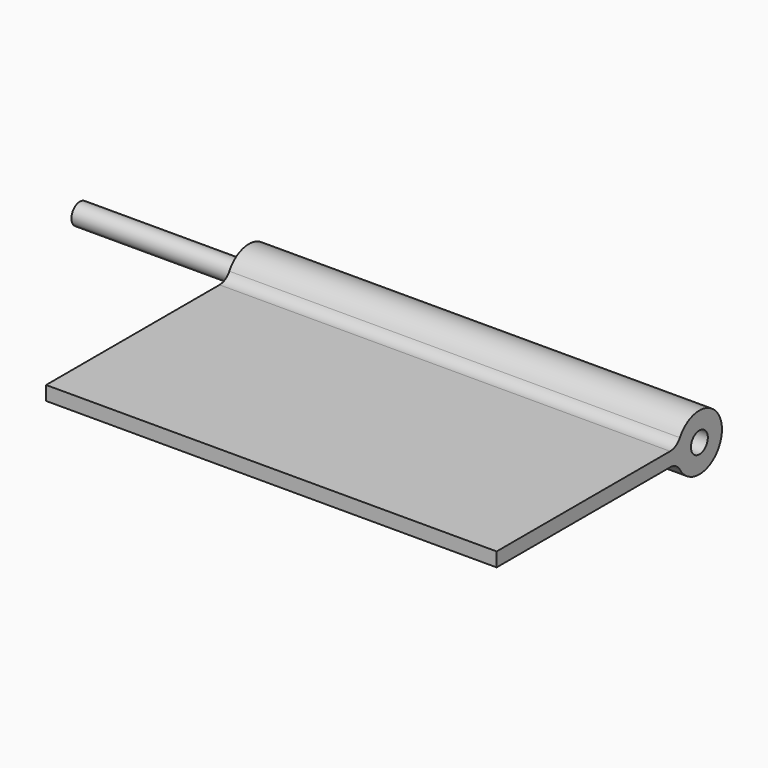
from build123d import *

# Parameters (mm, degrees)
F0_R     = 0.595313
F1_DEPTH = 9.525
F2_DEPTH = 25.4


with BuildPart() as f1:
    # F0 (on Right) → F1 (new body, symmetric)
    with BuildSketch(Plane.YZ):
        with Locations((1.5875, 0)):
            Circle(F0_R)
    extrude(amount=F1_DEPTH, both=True)

    # F0 (on Right) → F2 (join)
    with BuildSketch(Plane.YZ):
        with BuildLine():
            Line((-12.7, 0.396875), (-12.7, -0.396875))
            Line((-12.7, -0.396875), (-0.474723, -0.396875))
            ThreePointArc((-0.474723, -0.396875), (-0.077848, -0.503217), (0.212685, -0.79375))
            ThreePointArc((0.212685, -0.79375), (3.175, 0), (0.212685, 0.79375))
            ThreePointArc((0.212685, 0.79375), (-0.077848, 0.503217), (-0.474723, 0.396875))
            Line((-0.474723, 0.396875), (-12.7, 0.396875))
        make_face()
        with Locations((1.5875, 0)):
            Circle(F0_R, mode=Mode.SUBTRACT)
    extrude(amount=F2_DEPTH)


solid = f1.part
